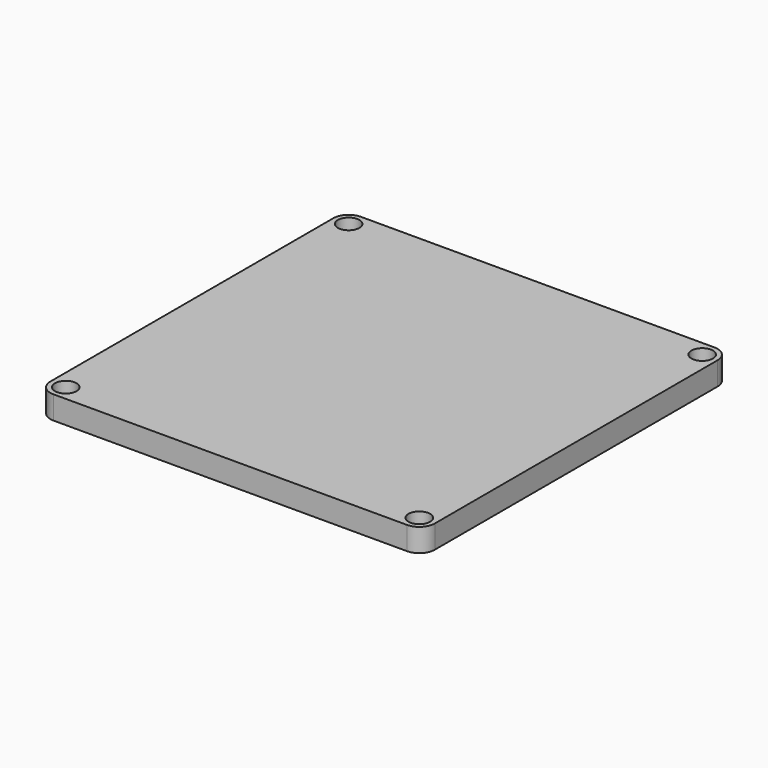
from build123d import *

# Parameters (mm, degrees)
F0_W     = 316.70625
F0_H     = 316.7126
F1_DEPTH = 19.05
F2_R     = 12.7
F3_R     = 8.89
F4_DEPTH = 25.4


with BuildPart() as f1:
    # F0 (on Top) → F1 (new body)
    with BuildSketch(Plane.XY):
        Rectangle(F0_W, F0_H)
    extrude(amount=F1_DEPTH)

    # F2
    f2_edges = [f1.edges().sort_by_distance(p)[0] for p in [
        (-158.353125, -158.3563, 9.525),
        (-158.353125, 158.3563, 9.525),
        (158.353125, 158.3563, 9.525),
        (158.353125, -158.3563, 9.525),
    ]]
    fillet(f2_edges, radius=F2_R)

    # F3 (on face) → F4 (cut)
    with BuildSketch(Plane.XY.offset(19.05)):
        with Locations((-145.653125, 145.6563)):
            Circle(F3_R)
        with Locations((145.653125, 145.6563)):
            Circle(F3_R)
        with Locations((145.653125, -145.6563)):
            Circle(F3_R)
        with Locations((-145.653125, -145.6563)):
            Circle(F3_R)
    extrude(amount=-F4_DEPTH, mode=Mode.SUBTRACT)


solid = f1.part
